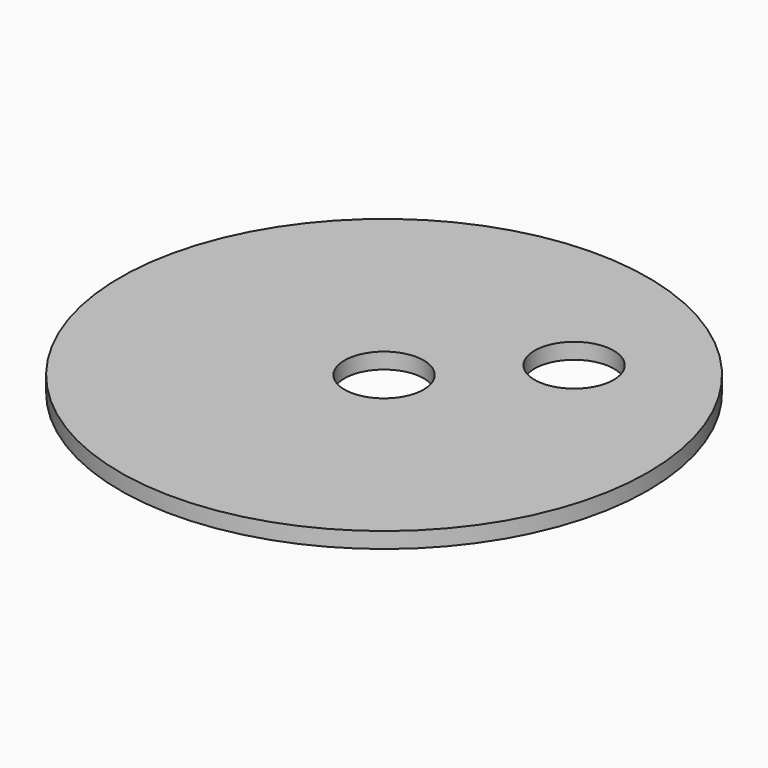
from build123d import *

# Parameters (mm, degrees)
F0_R     = 127
F1_DEPTH = 7.62
F2_R     = 19.05
F3_DEPTH = 7.62


with BuildPart() as f1:
    # F0 (on Top) → F1 (new body)
    with BuildSketch(Plane.XY):
        Circle(F0_R)
    extrude(amount=F1_DEPTH)

    # F2 (on face) → F3 (cut)
    with BuildSketch(Plane.XY.offset(7.62)):
        Circle(F2_R)
        with Locations((50.8, 50.8)):
            Circle(F2_R)
    extrude(amount=-F3_DEPTH, mode=Mode.SUBTRACT)


solid = f1.part
